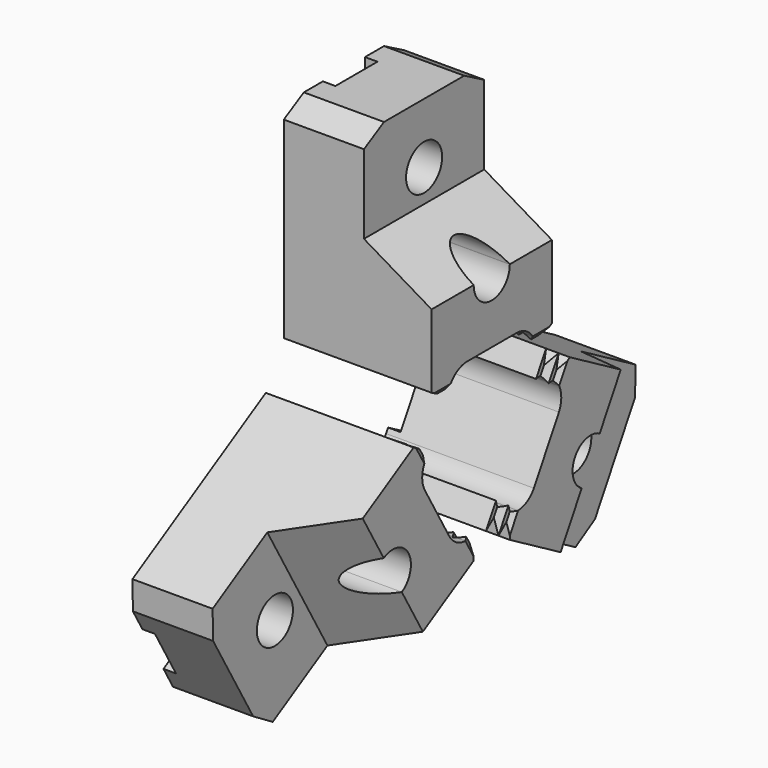
from build123d import *

# Parameters (mm, degrees)
F1_START = 3
F1_DEPTH = 59
F3_DEPTH = 60
F5_DEPTH = 82.3
F6_R     = 9
F7_DEPTH = 59
F9_COUNT = 3


with BuildPart() as f1:
    # F0 (on Right) → F1 (new body)
    with BuildSketch(Plane.YZ.offset(F1_START)):
        Polygon((-25, 25), (0, 25), (25, 25), (30, 27.7), (30, 104.5), (20, 110), (0, 110), (-20, 110), (-30, 104.5), (-30, 27.7), align=None)
    extrude(amount=F1_DEPTH)

    # F2 (on face) → F3 (cut, through all)
    with BuildSketch(Plane.XZ.offset(30)):
        Polygon((62, 110), (35, 110), (35, 73), (62, 57), align=None)
        Polygon((62, 27), (60.5, 25), (62, 25), align=None)
        Polygon((57.5, 27.7), (55.5, 25), (60.5, 25), align=None)
        Polygon((52.5, 27.7), (3, 27.7), (3, 25), (55.5, 25), align=None)
    extrude(amount=-F3_DEPTH, mode=Mode.SUBTRACT)

    # F4 (on face) → F5 (cut, through all)
    with BuildSketch(Plane.XY.offset(110)):
        Polygon((3, 10.5), (3, 0), (3, -10.5), (8, -10.5), (8, 0), (8, 10.5), align=None)
    extrude(amount=-F5_DEPTH, mode=Mode.SUBTRACT)

    # F6 (on face) → F7 (cut, through all)
    with BuildSketch(Plane.YZ.offset(62)):
        with Locations((0, 85.95)):
            Circle(F6_R)
        with BuildLine():
            ThreePointArc((9, 56.95), (8.9999652774, 56.9750000965), (8.99986111, 57))
            Line((8.99986111, 57), (-8.99986111, 57))
            ThreePointArc((-8.99986111, 57), (-0.0250000965, 47.9500347226), (9, 56.95))
        make_face()
        with BuildLine():
            Line((-8.99986111, 57), (8.99986111, 57))
            ThreePointArc((8.99986111, 57), (0, 65.95), (-8.99986111, 57))
        make_face()
        with BuildLine():
            Line((-20.4860998852, 27), (20.4860998852, 27))
            ThreePointArc((20.4860998852, 27), (17.0390372407, 30.2189575775), (12.5, 31.5))
            Line((12.5, 31.5), (0, 31.5))
            Line((0, 31.5), (-12.5, 31.5))
            ThreePointArc((-12.5, 31.5), (-17.0390372407, 30.2189575775), (-20.4860998852, 27))
        make_face()
        with BuildLine():
            Line((0, 25), (21.5, 25))
            ThreePointArc((21.5, 25), (21.0492851896, 26.0285084617), (20.4860998852, 27))
            Line((20.4860998852, 27), (-20.4860998852, 27))
            ThreePointArc((-20.4860998852, 27), (-21.0492851896, 26.0285084617), (-21.5, 25))
            Line((-21.5, 25), (0, 25))
        make_face()
    extrude(amount=-F7_DEPTH, mode=Mode.SUBTRACT)


with BuildPart() as f9_1:
    # F9: instance of F1
    add(f1.part.rotate(Axis((44.0928898752, 0, 0), (1, 0, 0)), 1 * 360 / F9_COUNT))


with BuildPart() as f9_2:
    # F9: instance of F1
    add(f1.part.rotate(Axis((44.0928898752, 0, 0), (1, 0, 0)), 2 * 360 / F9_COUNT))


solid = Compound([f1.part, f9_1.part, f9_2.part])
